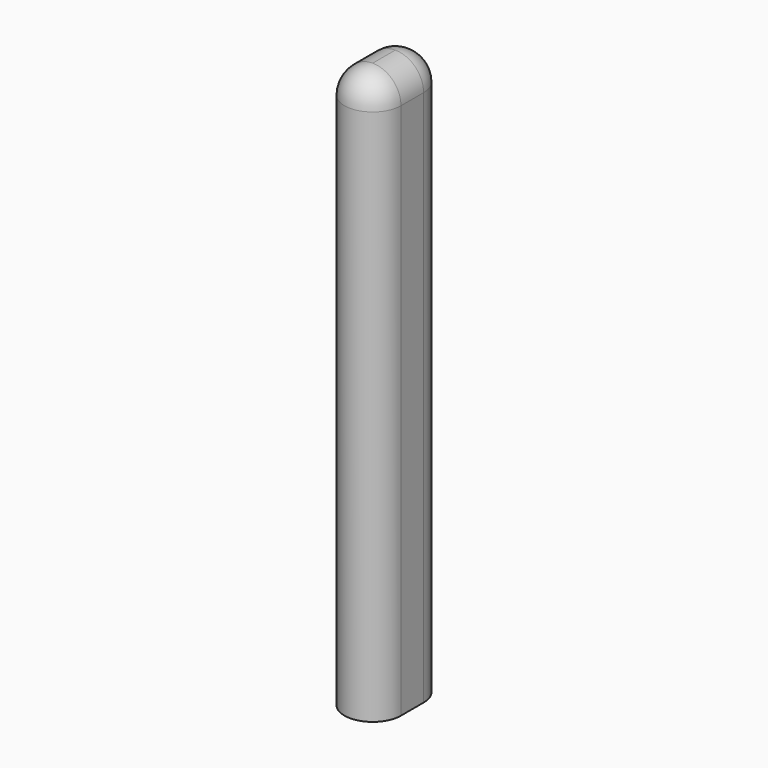
from build123d import *

# Parameters (mm, degrees)
PAD_DEPTH = 40
FILLET_R  = 2


with BuildPart() as part:
    # Sketch → Pad (new body)
    with BuildSketch(Plane.XY):
        with BuildLine():
            ThreePointArc((2, 0), (0, 2), (-2, 0))
            Line((-2, 0), (-2, -2))
            ThreePointArc((-2, -2), (0, -4), (2, -2))
            Line((2, -2), (2, 0))
        make_face()
    extrude(amount=PAD_DEPTH)

    # Fillet
    fillet_edges = [part.edges().sort_by_distance(p)[0] for p in [
        (0, 2, 40),
        (-2, -1, 40),
        (0, -4, 40),
        (2, -1, 40),
    ]]
    fillet(fillet_edges, radius=FILLET_R)


solid = part.part
